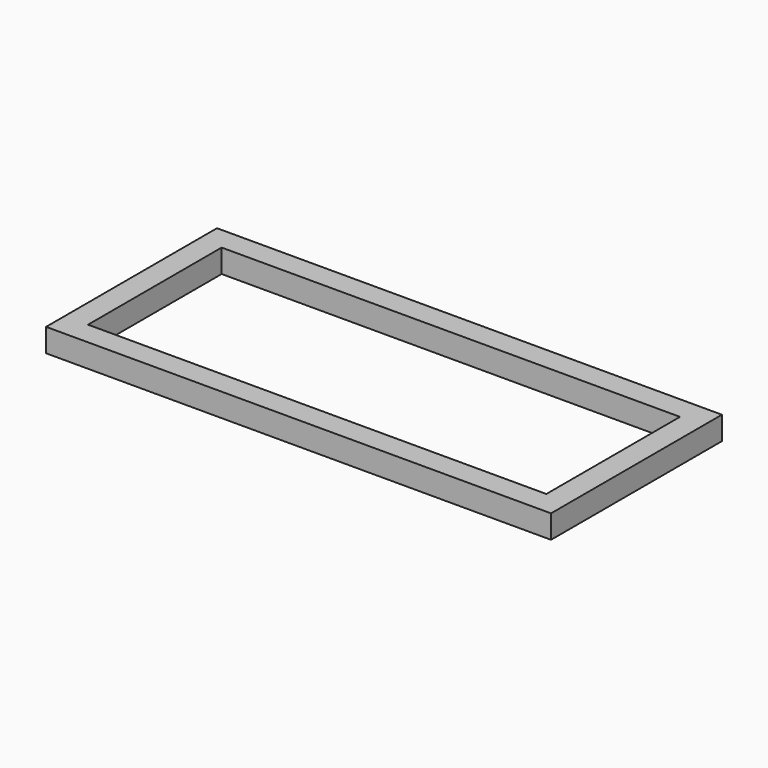
from build123d import *

# Parameters (mm, degrees)
F0_W     = 1300
F0_H     = 550
F0_W_2   = 1180
F0_H_2   = 430
F1_DEPTH = 30


with BuildPart() as f1:
    # F0 (on Top) → F1 (new body, symmetric)
    with BuildSketch(Plane.XY):
        with Locations((0, 303.536731)):
            Rectangle(F0_W, F0_H)
        with Locations((0, 303.536731)):
            Rectangle(F0_W_2, F0_H_2, mode=Mode.SUBTRACT)
    extrude(amount=F1_DEPTH, both=True)


solid = f1.part
